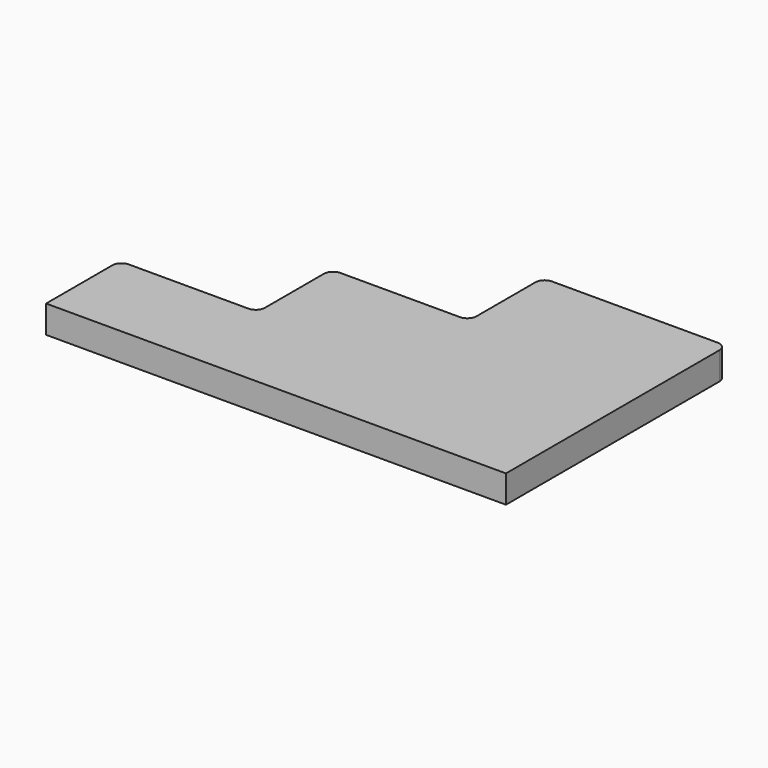
from build123d import *

# Parameters (mm, degrees)
PAD_DEPTH   = 3
FILLET_R    = 1
FILLET001_R = 1
FILLET002_R = 1
FILLET003_R = 1
FILLET004_R = 1
FILLET005_R = 1


with BuildPart() as part:
    # Sketch → Pad (new body)
    with BuildSketch(Plane.XY):
        Polygon((-10, 15.751367), (10, 15.751367), (10, -14.248633), (-40, -14.248633), (-40, -4.248633), (-25, -4.248633), (-25, 5.751367), (-10, 5.751367), align=None)
    extrude(amount=PAD_DEPTH)

    # Fillet
    fillet_edges = [part.edges().sort_by_distance(p)[0] for p in [
        (-40, -4.248633, 1.5),
    ]]
    fillet(fillet_edges, radius=FILLET_R)

    # Fillet001
    fillet001_edges = [part.edges().sort_by_distance(p)[0] for p in [
        (-25, -4.248633, 1.5),
    ]]
    fillet(fillet001_edges, radius=FILLET001_R)

    # Fillet002
    fillet002_edges = [part.edges().sort_by_distance(p)[0] for p in [
        (-25, 5.751367, 1.5),
    ]]
    fillet(fillet002_edges, radius=FILLET002_R)

    # Fillet003
    fillet003_edges = [part.edges().sort_by_distance(p)[0] for p in [
        (-10, 5.751367, 1.5),
    ]]
    fillet(fillet003_edges, radius=FILLET003_R)

    # Fillet004
    fillet004_edges = [part.edges().sort_by_distance(p)[0] for p in [
        (-10, 15.751367, 1.5),
    ]]
    fillet(fillet004_edges, radius=FILLET004_R)

    # Fillet005
    fillet005_edges = [part.edges().sort_by_distance(p)[0] for p in [
        (10, 15.751367, 1.5),
    ]]
    fillet(fillet005_edges, radius=FILLET005_R)


solid = part.part
